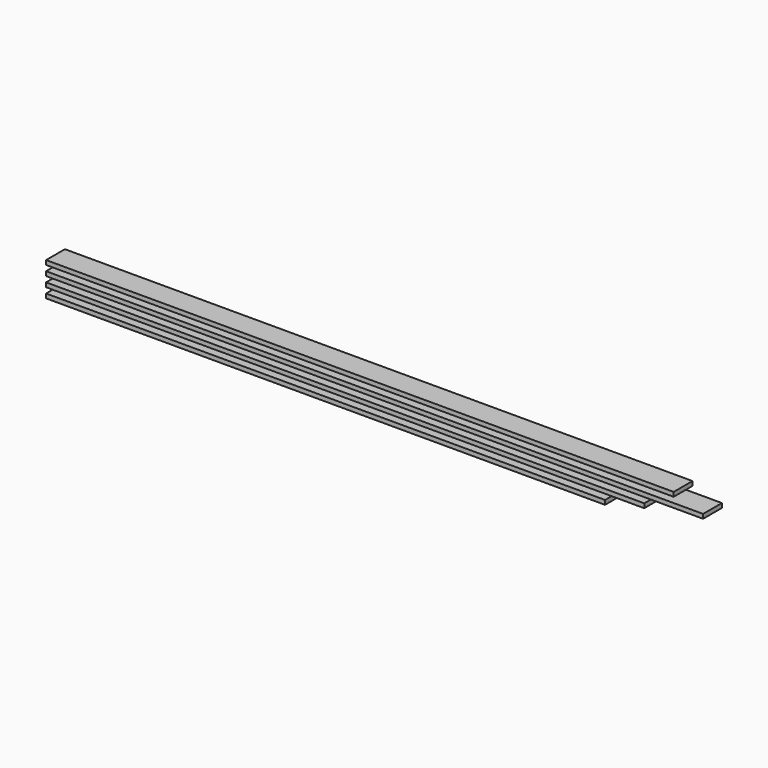
from build123d import *

# Parameters (mm, degrees)
F0_W     = 120
F0_H     = 22
F1_DEPTH = 2850
F2_DEPTH = 3050
F3_DEPTH = 3350
F4_DEPTH = 3200


with BuildPart() as f1:
    # F0 (on Right) → F1 (new body)
    with BuildSketch(Plane.YZ):
        with Locations((60, 11)):
            Rectangle(F0_W, F0_H)
    extrude(amount=F1_DEPTH)


with BuildPart() as f2:
    # F0 (on Right) → F2 (new body)
    with BuildSketch(Plane.YZ):
        with Locations((60, 61)):
            Rectangle(F0_W, F0_H)
    extrude(amount=F2_DEPTH)


with BuildPart() as f3:
    # F0 (on Right) → F3 (new body)
    with BuildSketch(Plane.YZ):
        with Locations((60, 111)):
            Rectangle(F0_W, F0_H)
    extrude(amount=F3_DEPTH)


with BuildPart() as f4:
    # F0 (on Right) → F4 (new body)
    with BuildSketch(Plane.YZ):
        with Locations((60, 161)):
            Rectangle(F0_W, F0_H)
    extrude(amount=F4_DEPTH)


solid = Compound([f1.part, f2.part, f3.part, f4.part])
